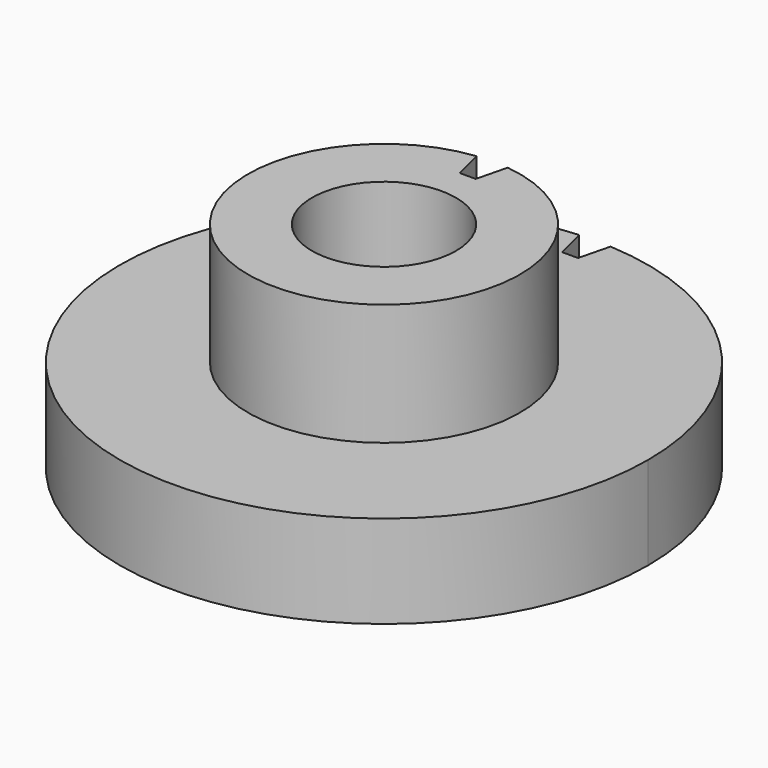
from build123d import *

# Parameters (mm, degrees)
F0_R      = 8.25
F1_DEPTH  = 2.9
F2_R      = 4.25
F3_DEPTH  = 3.8
F5_DEPTH  = 2.9
F7_DEPTH  = 3.8
F8_R      = 2.25
F9_DEPTH  = 6.7
F8_R_2    = 6.9020481578
F8_R_3    = 4.9020481578
F8_R_4    = 3.9020481578
F8_R_5    = 2.9020481578
F10_DEPTH = 0.5


with BuildPart() as f1:
    # F0 (on Top) → F1 (new body)
    with BuildSketch(Plane.XY):
        Circle(F0_R)
    extrude(amount=F1_DEPTH)

    # F2 (on face) → F3 (join)
    with BuildSketch(Plane.XY.offset(2.9)):
        Circle(F2_R)
    extrude(amount=F3_DEPTH)

    # F4 (on face) → F5 (cut)
    with BuildSketch(Plane.XY.offset(2.9)):
        with BuildLine():
            ThreePointArc((0.4919195185, 8.2353211952), (0, 8.25), (-0.4919195185, 8.2353211952))
            Line((-0.4919195185, 8.2353211952), (-0.25, 7.265035003))
            Line((-0.25, 7.265035003), (0.25, 7.265035003))
            Line((0.25, 7.265035003), (0.4919195185, 8.2353211952))
        make_face()
    extrude(amount=-F5_DEPTH, mode=Mode.SUBTRACT)

    # F6 (on face) → F7 (cut)
    with BuildSketch(Plane.XY.offset(6.7)):
        with BuildLine():
            ThreePointArc((0.4875978882, 4.221936558), (0, 4.25), (-0.4875978882, 4.221936558))
            Line((-0.4875978882, 4.221936558), (-0.25, 3.2689834782))
            Line((-0.25, 3.2689834782), (0.25, 3.2689834782))
            Line((0.25, 3.2689834782), (0.4875978882, 4.221936558))
        make_face()
    extrude(amount=-F7_DEPTH, mode=Mode.SUBTRACT)

    # F8 (on face) → F9 (cut)
    with BuildSketch(Plane(origin=(0, 0, 0), x_dir=(1, 0, 0), z_dir=(0, 0, -1))):
        Circle(F8_R)
    extrude(amount=-F9_DEPTH, mode=Mode.SUBTRACT)

    # F8 (on face) → F10 (cut)
    with BuildSketch(Plane(origin=(0, 0, 0), x_dir=(1, 0, 0), z_dir=(0, 0, -1))):
        Circle(F8_R_2)
        Circle(F8_R_3, mode=Mode.SUBTRACT)
        Circle(F8_R_4)
        Circle(F8_R_5, mode=Mode.SUBTRACT)
    extrude(amount=-F10_DEPTH, mode=Mode.SUBTRACT)


solid = f1.part
